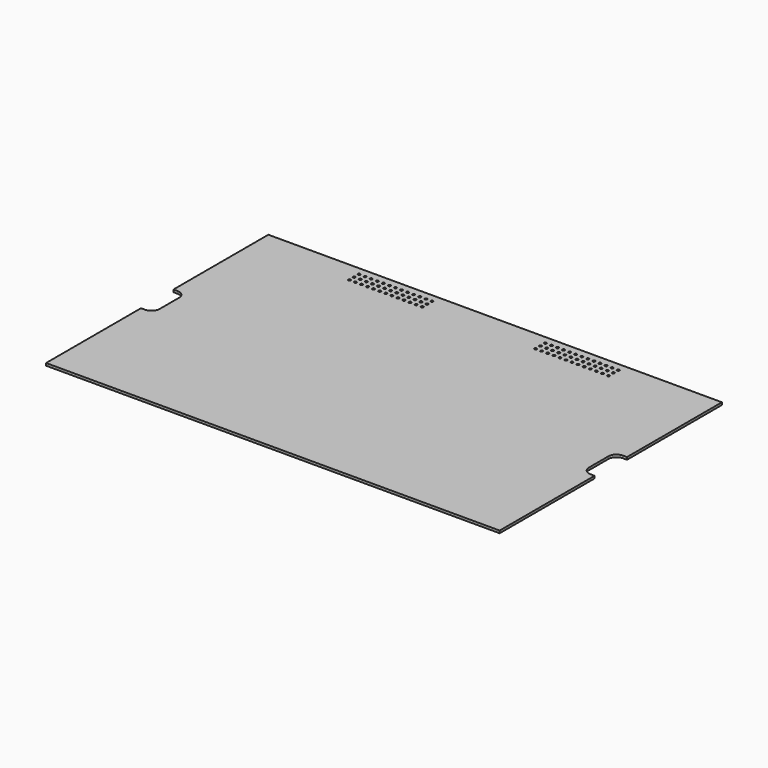
from build123d import *

# Parameters (mm, degrees)
F0_R     = 3
F1_DEPTH = 6


with BuildPart() as f1:
    # F0 (on Top) → F1 (new body)
    with BuildSketch(Plane.XY):
        with BuildLine():
            Line((0, 343), (-560, 343))
            Line((-560, 343), (-560, 50))
            Line((-560, 50), (-550, 50))
            ThreePointArc((-550, 50), (-535.857864, 44.142136), (-530, 30))
            Line((-530, 30), (-530, -30))
            ThreePointArc((-530, -30), (-535.857864, -44.142136), (-550, -50))
            Line((-550, -50), (-560, -50))
            Line((-560, -50), (-560, -343))
            Line((-560, -343), (0, -343))
            Line((0, -343), (560, -343))
            Line((560, -343), (560, -50))
            Line((560, -50), (550, -50))
            ThreePointArc((550, -50), (535.857864, -44.142136), (530, -30))
            Line((530, -30), (530, 30))
            ThreePointArc((530, 30), (535.857864, 44.142136), (550, 50))
            Line((550, 50), (560, 50))
            Line((560, 50), (560, 343))
            Line((560, 343), (0, 343))
        make_face()
        with Locations((-320, 293)):
            Circle(F0_R, mode=Mode.SUBTRACT)
        with Locations((-305, 293)):
            Circle(F0_R, mode=Mode.SUBTRACT)
        with Locations((-290, 293)):
            Circle(F0_R, mode=Mode.SUBTRACT)
        with Locations((-320, 308)):
            Circle(F0_R, mode=Mode.SUBTRACT)
        with Locations((-305, 308)):
            Circle(F0_R, mode=Mode.SUBTRACT)
        with Locations((-290, 308)):
            Circle(F0_R, mode=Mode.SUBTRACT)
        with Locations((-320, 323)):
            Circle(F0_R, mode=Mode.SUBTRACT)
        with Locations((-305, 323)):
            Circle(F0_R, mode=Mode.SUBTRACT)
        with Locations((-290, 323)):
            Circle(F0_R, mode=Mode.SUBTRACT)
        with Locations((-275, 293)):
            Circle(F0_R, mode=Mode.SUBTRACT)
        with Locations((-260, 293)):
            Circle(F0_R, mode=Mode.SUBTRACT)
        with Locations((-245, 293)):
            Circle(F0_R, mode=Mode.SUBTRACT)
        with Locations((-230, 293)):
            Circle(F0_R, mode=Mode.SUBTRACT)
        with Locations((-215, 293)):
            Circle(F0_R, mode=Mode.SUBTRACT)
        with Locations((-200, 293)):
            Circle(F0_R, mode=Mode.SUBTRACT)
        with Locations((-185, 293)):
            Circle(F0_R, mode=Mode.SUBTRACT)
        with Locations((-170, 293)):
            Circle(F0_R, mode=Mode.SUBTRACT)
        with Locations((-155, 293)):
            Circle(F0_R, mode=Mode.SUBTRACT)
        with Locations((-275, 308)):
            Circle(F0_R, mode=Mode.SUBTRACT)
        with Locations((-260, 308)):
            Circle(F0_R, mode=Mode.SUBTRACT)
        with Locations((-245, 308)):
            Circle(F0_R, mode=Mode.SUBTRACT)
        with Locations((-230, 308)):
            Circle(F0_R, mode=Mode.SUBTRACT)
        with Locations((-215, 308)):
            Circle(F0_R, mode=Mode.SUBTRACT)
        with Locations((-275, 323)):
            Circle(F0_R, mode=Mode.SUBTRACT)
        with Locations((-260, 323)):
            Circle(F0_R, mode=Mode.SUBTRACT)
        with Locations((-245, 323)):
            Circle(F0_R, mode=Mode.SUBTRACT)
        with Locations((-230, 323)):
            Circle(F0_R, mode=Mode.SUBTRACT)
        with Locations((-215, 323)):
            Circle(F0_R, mode=Mode.SUBTRACT)
        with Locations((-200, 308)):
            Circle(F0_R, mode=Mode.SUBTRACT)
        with Locations((-185, 308)):
            Circle(F0_R, mode=Mode.SUBTRACT)
        with Locations((-170, 308)):
            Circle(F0_R, mode=Mode.SUBTRACT)
        with Locations((-155, 308)):
            Circle(F0_R, mode=Mode.SUBTRACT)
        with Locations((-200, 323)):
            Circle(F0_R, mode=Mode.SUBTRACT)
        with Locations((-185, 323)):
            Circle(F0_R, mode=Mode.SUBTRACT)
        with Locations((-170, 323)):
            Circle(F0_R, mode=Mode.SUBTRACT)
        with Locations((-155, 323)):
            Circle(F0_R, mode=Mode.SUBTRACT)
        with Locations((-140, 293)):
            Circle(F0_R, mode=Mode.SUBTRACT)
        with Locations((-140, 308)):
            Circle(F0_R, mode=Mode.SUBTRACT)
        with Locations((-140, 323)):
            Circle(F0_R, mode=Mode.SUBTRACT)
        with Locations((140, 293)):
            Circle(F0_R, mode=Mode.SUBTRACT)
        with Locations((155, 293)):
            Circle(F0_R, mode=Mode.SUBTRACT)
        with Locations((170, 293)):
            Circle(F0_R, mode=Mode.SUBTRACT)
        with Locations((185, 293)):
            Circle(F0_R, mode=Mode.SUBTRACT)
        with Locations((200, 293)):
            Circle(F0_R, mode=Mode.SUBTRACT)
        with Locations((215, 293)):
            Circle(F0_R, mode=Mode.SUBTRACT)
        with Locations((230, 293)):
            Circle(F0_R, mode=Mode.SUBTRACT)
        with Locations((245, 293)):
            Circle(F0_R, mode=Mode.SUBTRACT)
        with Locations((260, 293)):
            Circle(F0_R, mode=Mode.SUBTRACT)
        with Locations((275, 293)):
            Circle(F0_R, mode=Mode.SUBTRACT)
        with Locations((140, 308)):
            Circle(F0_R, mode=Mode.SUBTRACT)
        with Locations((155, 308)):
            Circle(F0_R, mode=Mode.SUBTRACT)
        with Locations((170, 308)):
            Circle(F0_R, mode=Mode.SUBTRACT)
        with Locations((185, 308)):
            Circle(F0_R, mode=Mode.SUBTRACT)
        with Locations((200, 308)):
            Circle(F0_R, mode=Mode.SUBTRACT)
        with Locations((140, 323)):
            Circle(F0_R, mode=Mode.SUBTRACT)
        with Locations((155, 323)):
            Circle(F0_R, mode=Mode.SUBTRACT)
        with Locations((170, 323)):
            Circle(F0_R, mode=Mode.SUBTRACT)
        with Locations((185, 323)):
            Circle(F0_R, mode=Mode.SUBTRACT)
        with Locations((200, 323)):
            Circle(F0_R, mode=Mode.SUBTRACT)
        with Locations((215, 308)):
            Circle(F0_R, mode=Mode.SUBTRACT)
        with Locations((230, 308)):
            Circle(F0_R, mode=Mode.SUBTRACT)
        with Locations((245, 308)):
            Circle(F0_R, mode=Mode.SUBTRACT)
        with Locations((260, 308)):
            Circle(F0_R, mode=Mode.SUBTRACT)
        with Locations((275, 308)):
            Circle(F0_R, mode=Mode.SUBTRACT)
        with Locations((215, 323)):
            Circle(F0_R, mode=Mode.SUBTRACT)
        with Locations((230, 323)):
            Circle(F0_R, mode=Mode.SUBTRACT)
        with Locations((245, 323)):
            Circle(F0_R, mode=Mode.SUBTRACT)
        with Locations((260, 323)):
            Circle(F0_R, mode=Mode.SUBTRACT)
        with Locations((275, 323)):
            Circle(F0_R, mode=Mode.SUBTRACT)
        with Locations((290, 293)):
            Circle(F0_R, mode=Mode.SUBTRACT)
        with Locations((305, 293)):
            Circle(F0_R, mode=Mode.SUBTRACT)
        with Locations((320, 293)):
            Circle(F0_R, mode=Mode.SUBTRACT)
        with Locations((290, 308)):
            Circle(F0_R, mode=Mode.SUBTRACT)
        with Locations((305, 308)):
            Circle(F0_R, mode=Mode.SUBTRACT)
        with Locations((320, 308)):
            Circle(F0_R, mode=Mode.SUBTRACT)
        with Locations((290, 323)):
            Circle(F0_R, mode=Mode.SUBTRACT)
        with Locations((305, 323)):
            Circle(F0_R, mode=Mode.SUBTRACT)
        with Locations((320, 323)):
            Circle(F0_R, mode=Mode.SUBTRACT)
    extrude(amount=F1_DEPTH)


with BuildPart() as f2_1:
    # F2: copy of F1
    add(f1.part)


solid = Compound([f1.part, f2_1.part])
